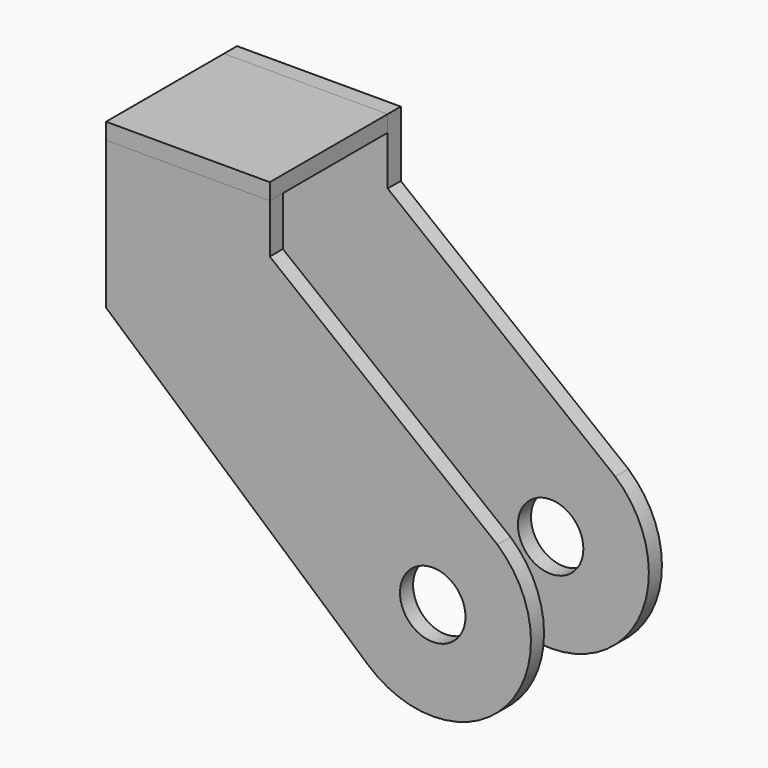
from build123d import *

# Parameters (mm, degrees)
F0_R     = 20
F1_DEPTH = 10
F4_W     = 100
F4_H     = 10
F5_DEPTH = 90


with BuildPart() as f1:
    # F0 (on Front) → F1 (new body)
    with BuildSketch(Plane.XZ):
        with BuildLine():
            Line((50, 0), (0, 0))
            Line((0, 0), (0, -100))
            Line((0, -100), (160, -240))
            ThreePointArc((160, -240), (244.664878, -234.355675), (239.020553, -149.690797))
            Line((239.020553, -149.690797), (100, -40))
            Line((100, -40), (100, 0))
            Line((100, 0), (50, 0))
        make_face()
        with Locations((199.510276, -194.845398)):
            Circle(F0_R, mode=Mode.SUBTRACT)
    extrude(amount=F1_DEPTH)


with BuildPart() as f3_1:
    # F3: instance of F1
    add(f1.part.mirror(Plane(origin=(120.487236, -50, -125.003988), x_dir=(1, 0, 0), z_dir=(0, -1, 0))))


with BuildPart() as f5:
    # F4 (on face) → F5 (new body)
    with BuildSketch(Plane.XZ.offset(10)):
        with Locations((50, -5)):
            Rectangle(F4_W, F4_H)
    extrude(amount=F5_DEPTH)


solid = Compound([f1.part, f3_1.part, f5.part])
